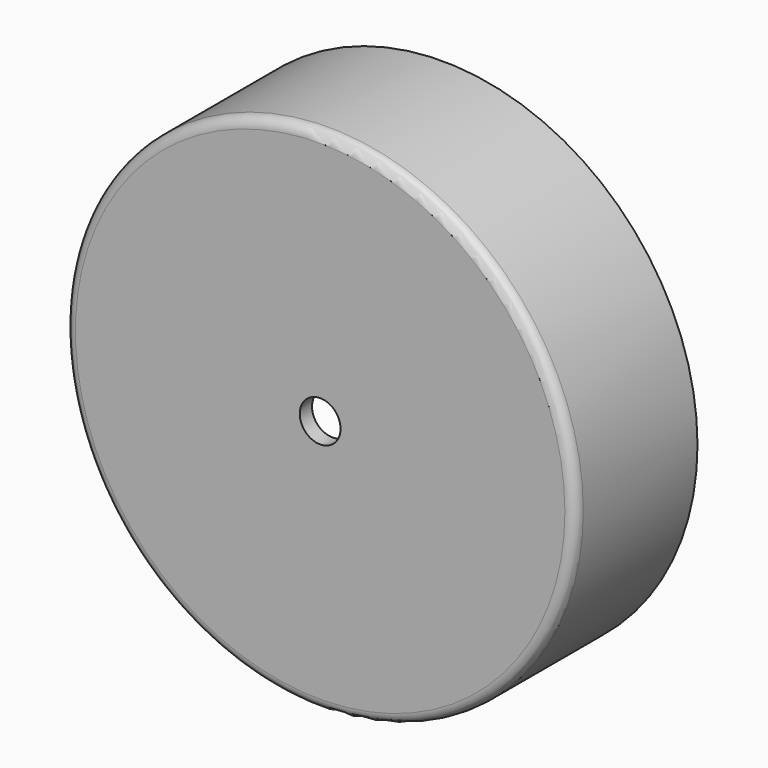
from build123d import *

# Parameters (mm, degrees)
F0_R     = 50
F1_DEPTH = 30
F2_T     = -3
F3_R     = 2
F5_D     = 8


with BuildPart() as f1:
    # F0 (on Front) → F1 (new body)
    with BuildSketch(Plane.XZ):
        Circle(F0_R)
    extrude(amount=F1_DEPTH)

    # F2
    f2_openings = [f1.faces().sort_by_distance(p)[0] for p in [
        (0, 0, 0),
    ]]
    offset(amount=F2_T, openings=f2_openings)

    # F3
    f3_edges = [f1.edges().sort_by_distance(p)[0] for p in [
        (-50, -30, 0),
    ]]
    fillet(f3_edges, radius=F3_R)

    # F5 (through all)
    with Locations(Plane.XZ.offset(30)):
        with Locations((0, 0)):
            Hole(F5_D / 2)


solid = f1.part
